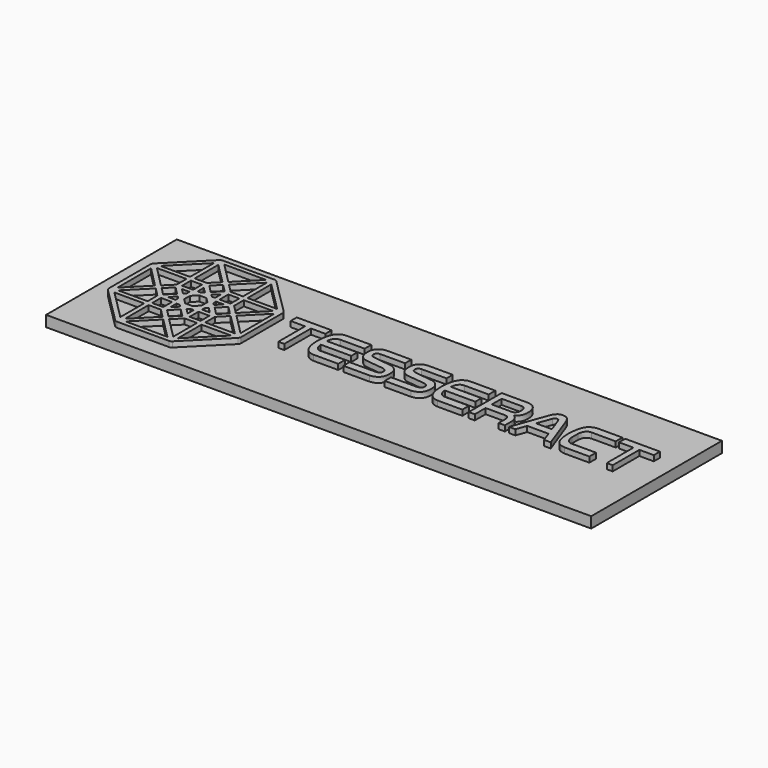
from build123d import *

# Parameters (mm, degrees)
F1_W     = 100
F1_H     = 29.9676025918
F2_DEPTH = 2
F3_W     = 2.0186528563
F3_H     = 2.018653322
F3_W_2   = 2.0163748413
F3_H_2   = 2.0190998912
F3_W_3   = 2.0199641585
F3_H_3   = 2.0242873579
F3_W_4   = 2.0192302763
F3_H_4   = 2.0192302763
F4_DEPTH = 1
F5_R     = 0.7


with BuildPart() as f2:
    # F1 (on Top) → F2 (new body)
    with BuildSketch(Plane.XY):
        with Locations((7.9463623826, 9.8747792212)):
            Rectangle(F1_W, F1_H)
    extrude(amount=-F2_DEPTH)

    # F3 (on face) → F4 (join)
    with BuildSketch(Plane.XY):
        Polygon((-5.9367739595, 15.2010433376), (-12.3171089217, 15.2010433376), (-12.3171089217, 13.7890018523), (-9.6682449803, 13.7890018523), (-9.6682449803, 7.6711033471), (-8.5810413584, 7.6711033471), (-8.5810413584, 13.7890018523), (-5.9367739595, 13.7890018523), align=None)
        with BuildLine():
            Line((-3.0983316246, 13.7000186369), (1.3362555765, 13.7000186369))
            Line((1.3362555765, 13.7000186369), (1.3362555765, 15.217371285))
            Line((1.3362555765, 15.217371285), (-3.0983316246, 15.217371285))
            add(Edge.make_bspline(
                [(-3.2255935948, 7.6697627082), (-3.4431958835, 7.6921953618), (-3.9239609326, 7.7417575049), (-4.8323551907, 8.3137191664), (-5.4061105587, 9.7220068584), (-5.513504843, 11.499186724), (-5.405641117, 12.808304373), (-4.9831590462, 14.2872181019), (-4.3727496999, 14.8620063542), (-3.6907689814, 15.2053940956), (-3.2882803801, 15.2135311284), (-3.0983316246, 15.217371285)],
                knots=[0, 0, 0, 0, 0.0887944988, 0.1961803426, 0.327836819, 0.4713311051, 0.5974230268, 0.7283531377, 0.8258616454, 0.917817887, 1, 1, 1, 1], degree=3))
            Line((-3.2255935948, 7.6697627082), (1.3166768476, 7.6697627082))
            Line((1.3166768476, 7.6697627082), (1.3166768476, 9.2164846137))
            Line((1.3166768476, 9.2164846137), (-3.2255935948, 9.2164846137))
            add(Edge.make_bspline(
                [(-3.2255935948, 9.2164846137), (-3.3624554515, 9.2359156477), (-3.6678166496, 9.2792755303), (-4.1889665207, 9.768505452), (-4.3239469617, 10.3653285576), (-4.3611610308, 10.7534164563)],
                knots=[0, 0, 0, 0, 0.1049776413, 0.2341785183, 0.3963254475, 0.3963254475, 0.3963254475, 0.3963254475], degree=3))
            add(Edge.make_bspline(
                [(-4.3611610308, 10.7534164563), (-4.405039218, 11.211001285), (-4.3962169394, 11.7463431343), (-4.3611610308, 12.1630867943)],
                knots=[0.3963254475, 0.3963254475, 0.3963254475, 0.3963254475, 0.5875088755, 0.5875088755, 0.5875088755, 0.5875088755], degree=3))
            add(Edge.make_bspline(
                [(-4.3611610308, 12.1630867943), (-4.3347418099, 12.4771577534), (-4.2571564052, 12.9404145851), (-3.8304997833, 13.5158493), (-3.4899066668, 13.6706503108), (-3.0983316246, 13.7000186369)],
                knots=[0.5875088755, 0.5875088755, 0.5875088755, 0.5875088755, 0.7315906418, 0.8580545847, 1, 1, 1, 1], degree=3))
        make_face()
        with BuildLine():
            Line((1.2285725679, 12.1630867943), (-4.3611610308, 12.1630867943))
            add(Edge.make_bspline(
                [(-4.3611610308, 10.7534164563), (-4.405039218, 11.211001285), (-4.3962169394, 11.7463431343), (-4.3611610308, 12.1630867943)],
                knots=[0.3963254475, 0.3963254475, 0.3963254475, 0.3963254475, 0.5875088755, 0.5875088755, 0.5875088755, 0.5875088755], degree=3))
            Line((-4.3611610308, 10.7534164563), (1.2285725679, 10.7534164563))
            Line((1.2285725679, 10.7534164563), (1.2285725679, 12.1630867943))
        make_face()
        with BuildLine():
            Line((4.0900926106, 13.78804259), (8.6910994723, 13.78804259))
            Line((8.6910994723, 13.78804259), (8.6910994723, 15.2172921225))
            Line((8.6910994723, 15.2172921225), (4.0900926106, 15.2172921225))
            add(Edge.make_bspline(
                [(7.0660626516, 9.0793529525), (7.2303622852, 9.1016366467), (7.5374819273, 9.1432907881), (7.8672130508, 9.3831708171), (7.8878279838, 9.8703224505), (7.830141337, 10.3331712204), (7.2276705262, 10.5946684431), (6.982069777, 10.6322841108), (3.6762785316, 10.9287891041), (3.2958884031, 11.1400561783), (2.7487468487, 11.5222050466), (2.4504401892, 12.0071443443), (2.304577142, 12.7918712836), (2.2750363767, 13.4038336721), (2.4238330056, 14.1467515075), (2.82600628, 14.7058425815), (3.4167468509, 15.0893467875), (3.8656677825, 15.174648192), (4.0900926106, 15.2172921225)],
                knots=[0, 0, 0, 0, 0.053120104, 0.0992955794, 0.1512814609, 0.202519353, 0.2593577716, 0.3047010598, 0.4421874871, 0.4982596998, 0.5571003486, 0.6154857525, 0.6831891668, 0.7441347542, 0.8098424302, 0.873078664, 0.9365494077, 1, 1, 1, 1], degree=3))
            Line((7.0660626516, 9.0793529525), (2.2692685015, 9.0793529525))
            Line((2.2692685015, 9.0793529525), (2.2692685015, 7.6501038857))
            Line((2.2692685015, 7.6501038857), (7.0660626516, 7.6501038857))
            add(Edge.make_bspline(
                [(7.0660626516, 7.6501038857), (7.2654719232, 7.6729561608), (7.6829957539, 7.7208043344), (8.3675074128, 8.0455123646), (8.8395222888, 8.6491041597), (9.0497176936, 9.4143064584), (8.9990086337, 10.3819928352), (8.8984864543, 10.9337680718), (8.4794435575, 11.5300840822), (7.869051712, 11.9005811217), (7.4248554538, 12.0750296565), (4.1866625984, 12.3336351782), (3.6133060724, 12.5611707174), (3.420161351, 12.9277551397), (3.4066877864, 13.3221602204), (3.5971685209, 13.714363064), (3.9200682139, 13.7626282976), (4.0900926106, 13.78804259)],
                knots=[0, 0, 0, 0, 0.062212049, 0.1302598058, 0.1983263004, 0.269106952, 0.3465178815, 0.4059082589, 0.4726632192, 0.5366810618, 0.595026608, 0.7371857994, 0.7998076844, 0.846568137, 0.8960024941, 0.9452396098, 1, 1, 1, 1], degree=3))
        make_face()
        with BuildLine():
            Line((11.6406617321, 13.8343983592), (16.2416685939, 13.8343983592))
            Line((16.2416685939, 13.8343983592), (16.2416685939, 15.2636478917))
            Line((16.2416685939, 15.2636478917), (11.6406617321, 15.2636478917))
            add(Edge.make_bspline(
                [(14.6166317731, 9.1257087217), (14.7809314068, 9.1479924159), (15.0880510488, 9.1896465573), (15.4177821723, 9.4295265863), (15.4383971053, 9.9166782196), (15.3807104585, 10.3795269895), (14.7782396478, 10.6410242123), (14.5326388985, 10.6786398799), (11.2268476531, 10.9751448733), (10.8464575246, 11.1864119475), (10.2993159702, 11.5685608157), (10.0010093108, 12.0535001135), (9.8551462635, 12.8382270528), (9.8256054983, 13.4501894413), (9.9744021271, 14.1931072766), (10.3765754015, 14.7521983507), (10.9673159724, 15.1357025566), (11.416236904, 15.2210039611), (11.6406617321, 15.2636478917)],
                knots=[0, 0, 0, 0, 0.053120104, 0.0992955794, 0.1512814609, 0.202519353, 0.2593577716, 0.3047010598, 0.4421874871, 0.4982596998, 0.5571003486, 0.6154857525, 0.6831891668, 0.7441347542, 0.8098424302, 0.873078664, 0.9365494077, 1, 1, 1, 1], degree=3))
            Line((14.6166317731, 9.1257087217), (9.8198376231, 9.1257087217))
            Line((9.8198376231, 9.1257087217), (9.8198376231, 7.6964596549))
            Line((9.8198376231, 7.6964596549), (14.6166317731, 7.6964596549))
            add(Edge.make_bspline(
                [(14.6166317731, 7.6964596549), (14.8160410447, 7.71931193), (15.2335648754, 7.7671601035), (15.9180765343, 8.0918681338), (16.3900914103, 8.6954599289), (16.6002868151, 9.4606622276), (16.5495777552, 10.4283486044), (16.4490555758, 10.980123841), (16.030012679, 11.5764398514), (15.4196208336, 11.9469368909), (14.9754245753, 12.1213854256), (11.73723172, 12.3799909474), (11.163875194, 12.6075264866), (10.9707304726, 12.9741109089), (10.9572569079, 13.3685159896), (11.1477376424, 13.7607188332), (11.4706373354, 13.8089840668), (11.6406617321, 13.8343983592)],
                knots=[0, 0, 0, 0, 0.062212049, 0.1302598058, 0.1983263004, 0.269106952, 0.3465178815, 0.4059082589, 0.4726632192, 0.5366810618, 0.595026608, 0.7371857994, 0.7998076844, 0.846568137, 0.8960024941, 0.9452396098, 1, 1, 1, 1], degree=3))
        make_face()
        with BuildLine():
            Line((19.6547170995, 13.705541018), (24.0893043006, 13.705541018))
            Line((24.0893043006, 13.705541018), (24.0893043006, 15.222893666))
            Line((24.0893043006, 15.222893666), (19.6547170995, 15.222893666))
            add(Edge.make_bspline(
                [(19.5274551293, 7.6752850893), (19.3098528406, 7.6977177429), (18.8290877915, 7.747279886), (17.9206935334, 8.3192415475), (17.3469381654, 9.7275292395), (17.2395438811, 11.5047091051), (17.3474076071, 12.8138267541), (17.7698896779, 14.292740483), (18.3802990242, 14.8675287353), (19.0622797427, 15.2109164767), (19.464768344, 15.2190535095), (19.6547170995, 15.222893666)],
                knots=[0, 0, 0, 0, 0.0887944988, 0.1961803426, 0.327836819, 0.4713311051, 0.5974230268, 0.7283531377, 0.8258616454, 0.917817887, 1, 1, 1, 1], degree=3))
            Line((19.5274551293, 7.6752850893), (24.0697255717, 7.6752850893))
            Line((24.0697255717, 7.6752850893), (24.0697255717, 9.2036767039))
            Line((24.0697255717, 9.2036767039), (19.5274551293, 9.2036767039))
            add(Edge.make_bspline(
                [(19.5274551293, 9.2036767039), (19.389873885, 9.2232098733), (19.0873657492, 9.2942608995), (18.5635902745, 9.7702285021), (18.429013775, 10.3701592522), (18.3918876933, 10.7589388374)],
                knots=[0, 0, 0, 0, 0.1055294357, 0.2346506584, 0.3966976217, 0.3966976217, 0.3966976217, 0.3966976217], degree=3))
            add(Edge.make_bspline(
                [(18.3918876933, 10.7589388374), (18.3481132499, 11.2173392165), (18.3568490591, 11.7520537858), (18.3918876933, 12.1686091754)],
                knots=[0.3966976217, 0.3966976217, 0.3966976217, 0.3966976217, 0.5877631824, 0.5877631824, 0.5877631824, 0.5877631824], degree=3))
            add(Edge.make_bspline(
                [(18.3918876933, 12.1686091754), (18.4182938957, 12.482538248), (18.4959286497, 12.9459968471), (18.922447933, 13.5213466541), (19.263383469, 13.6761907979), (19.6547170995, 13.705541018)],
                knots=[0.5877631824, 0.5877631824, 0.5877631824, 0.5877631824, 0.7317561201, 0.8581420961, 1, 1, 1, 1], degree=3))
        make_face()
        with BuildLine():
            Line((23.981621292, 12.1686091754), (18.3918876933, 12.1686091754))
            add(Edge.make_bspline(
                [(18.3918876933, 10.7589388374), (18.3481132499, 11.2173392165), (18.3568490591, 11.7520537858), (18.3918876933, 12.1686091754)],
                knots=[0.3966976217, 0.3966976217, 0.3966976217, 0.3966976217, 0.5877631824, 0.5877631824, 0.5877631824, 0.5877631824], degree=3))
            Line((18.3918876933, 10.7589388374), (23.981621292, 10.7589388374))
            Line((23.981621292, 10.7589388374), (23.981621292, 12.1686091754))
        make_face()
        Polygon((54.3103798991, 15.191246639), (47.9300449369, 15.191246639), (47.9300449369, 13.7792051537), (50.5789088784, 13.7792051537), (50.5789088784, 7.6613066485), (51.6661125002, 7.6613066485), (51.6661125002, 13.7792051537), (54.3103798991, 13.7792051537), align=None)
        with BuildLine():
            Line((25.2546779811, 15.2172585949), (25.2546779811, 7.6686511748))
            Line((25.2546779811, 7.6686511748), (26.3659786433, 7.6686511748))
            Line((26.3659786433, 7.6686511748), (26.3659786433, 10.1464390755))
            Line((26.3659786433, 10.1464390755), (29.9056731164, 10.1464390755))
            add(Edge.make_bspline(
                [(29.9056731164, 10.1464390755), (30.0184087545, 10.1423013051), (30.233794606, 10.1331401189), (30.4487208556, 9.9716227264), (30.6484249601, 9.75166516), (30.7077560629, 9.5576607685), (30.7166221489, 9.4135746004), (30.7315699756, 9.3648964539)],
                knots=[0, 0, 0, 0, 0.2266899929, 0.4315167579, 0.6465693602, 0.8275880218, 1, 1, 1, 1], degree=3))
            Line((30.7315699756, 9.3648964539), (30.7315699756, 7.6845041476))
            Line((30.7315699756, 7.6845041476), (31.8663790822, 7.6845041476))
            Line((31.8663790822, 7.6845041476), (31.8663790822, 9.3648964539))
            add(Edge.make_bspline(
                [(30.925642699, 10.8781848103), (30.9918872305, 10.8468625649), (31.149114224, 10.7728182414), (31.3805901907, 10.5753172645), (31.6545343788, 10.233916661), (31.7736491933, 9.8726249001), (31.8394791511, 9.65479084), (31.8722110148, 9.4637815555), (31.8656603209, 9.4104397865), (31.8663790822, 9.3648964539)],
                knots=[0, 0, 0, 0, 0.1375892384, 0.2934240967, 0.4806971899, 0.6544601133, 0.7906362938, 0.9091823636, 1, 1, 1, 1], degree=3))
            add(Edge.make_bspline(
                [(30.925642699, 10.8781848103), (31.0559301079, 10.9413587423), (31.3369467152, 11.0776184485), (31.7326136886, 11.5529287884), (31.9743835527, 12.1884743018), (32.0217648843, 12.9839532894), (31.9243033386, 13.75099728), (31.6573840252, 14.4038279847), (31.1534735421, 14.9380656332), (30.5661781632, 15.1359318419), (30.3105458293, 15.2007490309), (30.0742158681, 15.2114764879), (29.946833849, 15.2172585949)],
                knots=[0, 0, 0, 0, 0.0878655504, 0.1895169999, 0.2977668124, 0.4150020744, 0.5305500506, 0.6401919305, 0.7524876681, 0.8538520345, 0.9212261414, 1, 1, 1, 1], degree=3))
            Line((29.946833849, 15.2172585949), (26.3659786433, 15.2172585949))
            Line((26.3659786433, 15.2172585949), (25.2546779811, 15.2172585949))
        make_face()
        with BuildLine():
            Line((29.9056731164, 11.5705486387), (26.3659786433, 11.5705486387))
            Line((26.3659786433, 11.5705486387), (26.3659786433, 13.8343079016))
            Line((26.3659786433, 13.8343079016), (29.946833849, 13.8343079016))
            add(Edge.make_bspline(
                [(29.946833849, 13.8343079016), (30.1033942537, 13.8189274888), (30.4145741568, 13.7883573371), (30.734914964, 13.4303433641), (30.9374522857, 12.718792301), (30.7674042001, 11.9856761208), (30.3978936309, 11.5987637185), (30.0689833244, 11.5799099116), (29.9056731164, 11.5705486387)],
                knots=[0, 0, 0, 0, 0.1515168472, 0.3011553137, 0.4935872784, 0.6874594188, 0.8448176712, 1, 1, 1, 1], degree=3))
        make_face(mode=Mode.SUBTRACT)
        with BuildLine():
            Line((34.9673852324, 14.1969034448), (32.623257488, 7.6726037078))
            Line((32.623257488, 7.6726037078), (33.8010936975, 7.6726037078))
            Line((33.8010936975, 7.6726037078), (34.4823934138, 9.5490617678))
            Line((34.4823934138, 9.5490617678), (38.4027473629, 9.5490617678))
            Line((38.4027473629, 9.5490617678), (39.0609502792, 7.6726037078))
            Line((39.0609502792, 7.6726037078), (40.2965284884, 7.6726037078))
            Line((40.2965284884, 7.6726037078), (37.9119813442, 14.1969034448))
            add(Edge.make_bspline(
                [(34.9673852324, 14.1969034448), (35.0476778264, 14.361322858), (35.2093091782, 14.6923039696), (35.6295342069, 15.125479827), (35.9698032213, 15.3125906502), (36.8565501324, 15.3399218223), (37.2988112535, 15.0861756855), (37.6823073357, 14.6605519682), (37.8361741984, 14.3499371792), (37.9119813442, 14.1969034448)],
                knots=[0, 0, 0, 0, 0.1430536838, 0.2879712702, 0.4079345517, 0.583306727, 0.7202853167, 0.8621901337, 1, 1, 1, 1], degree=3))
        make_face()
        with BuildLine():
            Line((37.8793030977, 10.9487716109), (34.9759124219, 10.9487716109))
            Line((34.9759124219, 10.9487716109), (35.9091423452, 13.5021973401))
            add(Edge.make_bspline(
                [(35.9091423452, 13.5021973401), (35.9514745507, 13.5968916056), (36.0320123658, 13.7770492222), (36.2511477507, 13.9278160191), (36.4243164012, 13.9467658682), (36.6808393813, 13.9312045169), (36.8506896303, 13.6998939311), (36.9196902228, 13.5659705409), (36.952547729, 13.5021973401)],
                knots=[0, 0, 0, 0, 0.1869399502, 0.3556567625, 0.4967121058, 0.662129204, 0.8391087468, 1, 1, 1, 1], degree=3))
            Line((36.952547729, 13.5021973401), (37.8793030977, 10.9487716109))
        make_face(mode=Mode.SUBTRACT)
        with BuildLine():
            Line((42.9498088505, 13.7151601965), (47.3843960516, 13.7151601965))
            Line((47.3843960516, 13.7151601965), (47.3843960516, 15.2325128445))
            Line((47.3843960516, 15.2325128445), (42.9661330726, 15.2325128445))
            add(Edge.make_bspline(
                [(42.8143773187, 7.6849042678), (42.6077621261, 7.7062042599), (42.1992464674, 7.7581794331), (41.2062571257, 8.2299677136), (40.6681301494, 9.6715619499), (40.543166867, 11.4391053841), (40.6783616705, 12.7499707759), (41.0177278188, 14.2428327272), (41.6828234832, 14.8638315942), (42.3305437853, 15.1581425233), (42.7687893842, 15.2285231861), (42.9661330726, 15.2325128445)],
                knots=[0, 0, 0, 0, 0.084311119, 0.191915149, 0.3236259345, 0.4671794129, 0.5933233483, 0.7243294846, 0.8247245336, 0.9146184387, 1, 1, 1, 1], degree=3))
            Line((42.8143773187, 7.6849042678), (47.3648173228, 7.6849042678))
            Line((47.3648173228, 7.6849042678), (47.3648173228, 9.2132958824))
            Line((47.3648173228, 9.2132958824), (42.8225468803, 9.2132958824))
            add(Edge.make_bspline(
                [(42.8225468803, 9.2132958824), (42.6849656361, 9.2328290518), (42.3824575003, 9.303880078), (41.8586820255, 9.7798476805), (41.7241055261, 10.3797784307), (41.6869794443, 10.7685580159)],
                knots=[0, 0, 0, 0, 0.1055294357, 0.2346506584, 0.3966976217, 0.3966976217, 0.3966976217, 0.3966976217], degree=3))
            add(Edge.make_bspline(
                [(41.6869794443, 10.7685580159), (41.6432050009, 11.226958395), (41.6519408101, 11.7616729643), (41.6869794443, 12.1782283539)],
                knots=[0.3966976217, 0.3966976217, 0.3966976217, 0.3966976217, 0.5877631824, 0.5877631824, 0.5877631824, 0.5877631824], degree=3))
            add(Edge.make_bspline(
                [(41.6869794443, 12.1782283539), (41.7133856468, 12.4921574265), (41.7910204007, 12.9556160256), (42.217539684, 13.5309658326), (42.5584752201, 13.6858099764), (42.9498088505, 13.7151601965)],
                knots=[0.5877631824, 0.5877631824, 0.5877631824, 0.5877631824, 0.7317561201, 0.8581420961, 1, 1, 1, 1], degree=3))
        make_face()
        with BuildLine():
            add(Edge.make_bspline(
                [(41.6869794443, 10.7685580159), (41.6729456927, 10.9914606237), (41.6751470017, 11.388133631), (41.6714068463, 11.931255903), (41.6869794443, 12.1782283539)],
                knots=[0, 0, 0, 0, 0.4740796085, 1, 1, 1, 1], degree=3))
            add(Edge.make_bspline(
                [(41.6869794443, 10.7685580159), (41.6432050009, 11.226958395), (41.6519408101, 11.7616729643), (41.6869794443, 12.1782283539)],
                knots=[0.3966976217, 0.3966976217, 0.3966976217, 0.3966976217, 0.5877631824, 0.5877631824, 0.5877631824, 0.5877631824], degree=3))
        make_face()
        Polygon((-38.9741957188, 15.2664029578), (-38.9741957188, 5.1621894507), (-31.8903164004, -1.9144939724), (-21.7822362509, -1.9144939724), (-14.7310858592, 5.1655913941), (-14.7310858592, 15.2683986217), (-21.8442581224, 22.3562587053), (-31.8920398513, 22.3562587053), align=None)
        Polygon((-23.0049323291, -1.0863519274), (-30.6802857667, -1.0863519274), (-26.8426090479, 2.743159188), align=None, mode=Mode.SUBTRACT)
        Polygon((-32.1173742414, 4.9314512871), (-32.1173742414, -0.506618002), (-37.5472791493, 4.9314512871), align=None, mode=Mode.SUBTRACT)
        Polygon((-27.4468399584, 3.3473889343), (-31.2763527036, -0.4984526313), (-31.2763527036, 4.9314512871), (-29.0309023112, 4.9314512871), align=None, mode=Mode.SUBTRACT)
        Polygon((-26.2465439737, 3.3392240293), (-24.6624816209, 4.9314517528), (-22.4007032812, 4.9314517528), (-22.4007032812, -0.5229481612), align=None, mode=Mode.SUBTRACT)
        Polygon((-16.1624383181, 4.9314517528), (-21.5678457171, -0.5066175363), (-21.5678457171, 4.9314517528), align=None, mode=Mode.SUBTRACT)
        with Locations((-30.2702821791, 6.7627301905)):
            Rectangle(F3_W, F3_H, mode=Mode.SUBTRACT)
        Polygon((-27.4486467242, 7.3551866226), (-28.4434892237, 6.3516935334), (-28.4434892237, 7.7877268195), (-27.8509091586, 7.7877268195), align=None, mode=Mode.SUBTRACT)
        Polygon((-28.2369032628, 5.355421923), (-26.8397778273, 6.7656026222), (-25.4296958447, 5.3425459191), (-26.8397175171, 3.9453801202), align=None, mode=Mode.SUBTRACT)
        Polygon((-26.2548364699, 7.3551866226), (-25.8352737874, 7.7747502364), (-25.259995833, 7.7747502364), (-25.259995833, 6.3603445888), align=None, mode=Mode.SUBTRACT)
        with Locations((-23.4077395871, 6.771737244)):
            Rectangle(F3_W_2, F3_H_2, mode=Mode.SUBTRACT)
        Polygon((-32.133705914, 5.7724737562), (-37.5309474766, 5.7724737562), (-33.7014347315, 9.6101500094), (-32.133705914, 8.0097578466), align=None, mode=Mode.SUBTRACT)
        Polygon((-34.3219973147, 10.2143790573), (-38.1351783872, 6.3767037354), (-38.1351783872, 14.0602206811), align=None, mode=Mode.SUBTRACT)
        Polygon((-29.2726159096, 8.6167668924), (-30.6826960295, 8.6167668924), (-29.679203406, 9.6029583365), (-29.2726159096, 9.2006959021), align=None, mode=Mode.SUBTRACT)
        Polygon((-31.6991657019, 8.7897833437), (-33.1049226224, 10.2128395811), (-31.6861916398, 11.6228134358), (-30.2761902321, 10.1954604784), align=None, mode=Mode.SUBTRACT)
        Polygon((-21.5760115534, 5.7888049632), (-21.5760115534, 8.0097578466), (-19.9837833643, 9.6183158457), (-16.1379426718, 5.7888049632), align=None, mode=Mode.SUBTRACT)
        Polygon((-24.4271978736, 8.6171515286), (-24.4271978736, 9.2145064846), (-23.9946302027, 9.6196085215), (-23.0127722025, 8.6171515286), align=None, mode=Mode.SUBTRACT)
        Polygon((-27.5043307544, 8.6227236316), (-28.4495633096, 9.5534231514), (-28.4392759204, 10.8650913462), (-27.4788066745, 11.8103139102), (-26.1742379516, 11.8103139102), (-25.2541750669, 10.8765177429), (-25.2541750669, 9.5444861799), (-26.2038699286, 8.6227236316), align=None, mode=Mode.SUBTRACT)
        Polygon((-21.9828505069, 8.8025378063), (-23.404141888, 10.2306958288), (-21.9862996007, 11.6072916242), (-20.5822227442, 10.1964312943), align=None, mode=Mode.SUBTRACT)
        Polygon((-19.3877201527, 10.2143799886), (-15.5418775976, 14.0683874488), (-15.5418775976, 6.3440431841), align=None, mode=Mode.SUBTRACT)
        Polygon((-29.6748783439, 10.8097447082), (-30.6740459055, 11.7959361523), (-29.2855929583, 11.7959361523), (-29.2855929583, 11.2033560872), align=None, mode=Mode.SUBTRACT)
        Polygon((-33.7096005678, 10.8022782952), (-37.5227816403, 14.648119919), (-32.109208405, 14.648119919), (-32.109208405, 12.3945055529), align=None, mode=Mode.SUBTRACT)
        Polygon((-24.0014959127, 10.800586082), (-24.4203321636, 11.2125547603), (-24.4203321636, 11.8099087849), (-23.0127722025, 11.8099087849), align=None, mode=Mode.SUBTRACT)
        Polygon((-19.9904087931, 10.8119314536), (-21.5764883906, 12.3980110511), (-21.5764883906, 14.63637501), (-16.1865632981, 14.63637501), align=None, mode=Mode.SUBTRACT)
        with Locations((-30.2724502981, 13.6298742145)):
            Rectangle(F3_W_3, F3_H_3, mode=Mode.SUBTRACT)
        Polygon((-27.848193422, 12.6333804801), (-28.4405164421, 12.6333804801), (-28.4448034437, 14.031998004), (-27.4403654039, 13.0509184673), align=None, mode=Mode.SUBTRACT)
        Polygon((-25.2445954829, 12.632898055), (-25.8413348347, 12.632898055), (-26.2500587851, 13.0552472547), (-25.2445954829, 14.0552604571), align=None, mode=Mode.SUBTRACT)
        with Locations((-23.4083961695, 13.6313233525)):
            Rectangle(F3_W_4, F3_H_4, mode=Mode.SUBTRACT)
        Polygon((-26.8498621881, 13.6510496959), (-28.2678956715, 15.0768957368), (-26.8478508913, 16.4814511941), (-25.4336716257, 15.0594806055), align=None, mode=Mode.SUBTRACT)
        Polygon((-32.109156251, 15.4740447178), (-37.5532700426, 15.4740447178), (-32.109156251, 20.9240774732), align=None, mode=Mode.SUBTRACT)
        Polygon((-31.2852188945, 15.5015094206), (-31.2852188945, 20.9188982844), (-27.4539105594, 17.0875899494), (-29.0468558669, 15.5015094206), align=None, mode=Mode.SUBTRACT)
        Polygon((-26.2454673648, 17.0669909567), (-22.400425747, 20.9257639945), (-22.400425747, 15.4740447178), (-24.6525220573, 15.4740447178), align=None, mode=Mode.SUBTRACT)
        Polygon((-21.5764883906, 15.4877770692), (-21.5764883906, 20.9188982844), (-16.1453671753, 15.4877770692), align=None, mode=Mode.SUBTRACT)
        Polygon((-26.8428232521, 17.6643449813), (-30.6809991598, 21.5368513018), (-23.018380627, 21.5368513018), align=None, mode=Mode.SUBTRACT)
    extrude(amount=F4_DEPTH)

    # F5
    f5_edges = [f2.edges().sort_by_distance(p)[0] for p in [
        (-14.731086, 15.268399, 0.5),
        (-14.731086, 5.165591, 0.5),
        (-21.782236, -1.914494, 0.5),
        (-31.890316, -1.914494, 0.5),
        (-38.974196, 5.162189, 0.5),
        (-21.844258, 22.356259, 0.5),
        (-31.89204, 22.356259, 0.5),
        (-38.974196, 15.266403, 0.5),
    ]]
    fillet(f5_edges, radius=F5_R)


solid = f2.part
